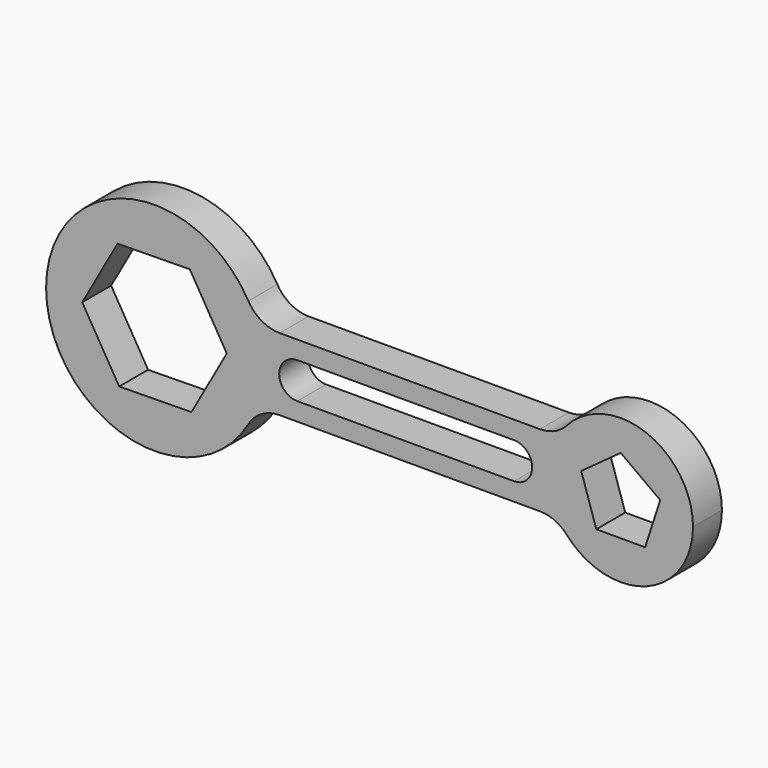
from build123d import *

# Parameters (mm, degrees)
F1_DEPTH = 254


with BuildPart() as f1:
    # F0 (on Front) → F1 (new body)
    with BuildSketch(Plane.XZ):
        with BuildLine():
            ThreePointArc((3784.6, 0), (3457.865622, 474.559558), (2897.959156, 338.666667))
            ThreePointArc((2897.959156, 338.666667), (2768.6, 0), (2897.959156, -338.666667))
            ThreePointArc((2897.959156, -338.666667), (3457.865622, -474.559558), (3784.6, 0))
        make_face()
        Polygon((2999.01039, 90.194332), (3276.6, 291.874989), (3554.18961, 90.194332), (3448.159814, -236.131826), (3105.040186, -236.131826), align=None, mode=Mode.SUBTRACT)
        with BuildLine():
            ThreePointArc((659.911358, 381), (736.03548, 197.220112), (762, 0))
            ThreePointArc((762, 0), (736.03548, -197.220112), (659.911358, -381))
            ThreePointArc((659.911358, -381), (752.88181, -288.029547), (879.88181, -254))
            Line((879.88181, -254), (1765.3, -254))
            Line((1765.3, -254), (2708.638734, -254))
            ThreePointArc((2708.638734, -254), (2812.333799, -276.130784), (2897.959156, -338.666667))
            ThreePointArc((2897.959156, -338.666667), (2768.6, 0), (2897.959156, 338.666667))
            ThreePointArc((2897.959156, 338.666667), (2812.333799, 276.130784), (2708.638734, 254))
            Line((2708.638734, 254), (1765.3, 254))
            Line((1765.3, 254), (879.88181, 254))
            ThreePointArc((879.88181, 254), (752.88181, 288.029547), (659.911358, 381))
        make_face()
        with BuildLine():
            Line((1003.3, 127), (1765.3, 127))
            Line((1765.3, 127), (2527.3, 127))
            ThreePointArc((2527.3, 127), (2654.3, 0), (2527.3, -127))
            Line((2527.3, -127), (1003.3, -127))
            ThreePointArc((1003.3, -127), (876.3, 0), (1003.3, 127))
        make_face(mode=Mode.SUBTRACT)
        with BuildLine():
            ThreePointArc((659.911358, -381), (736.03548, -197.220112), (762, 0))
            ThreePointArc((762, 0), (736.03548, 197.220112), (659.911358, 381))
            ThreePointArc((659.911358, 381), (-762, 0), (659.911358, -381))
        make_face()
        Polygon((-259.846082, 436.513475), (248.108718, 443.290045), (507.954799, 6.77657), (259.846082, -436.513475), (-248.108718, -443.290045), (-507.954799, -6.77657), align=None, mode=Mode.SUBTRACT)
    extrude(amount=F1_DEPTH)


solid = f1.part
